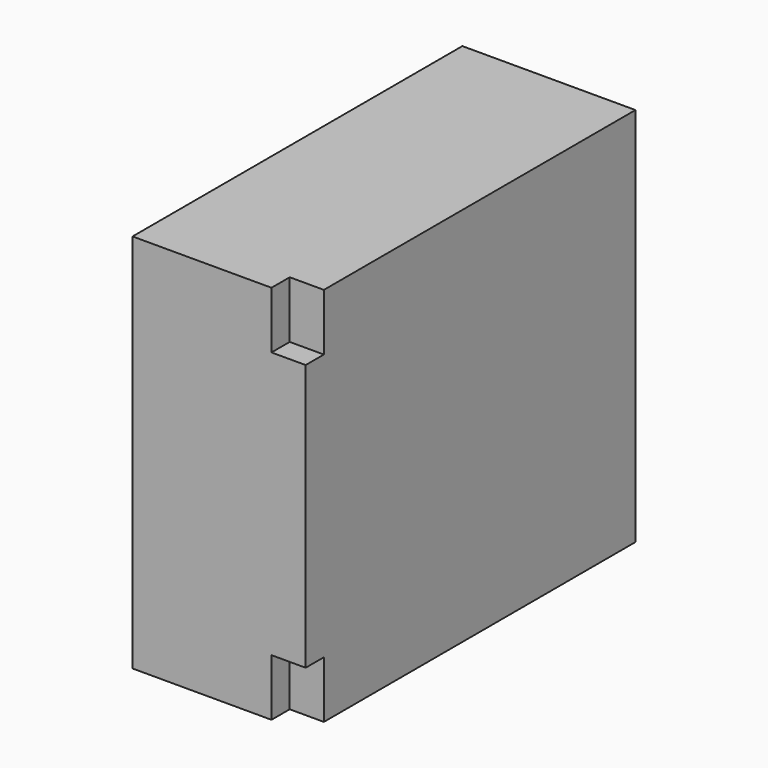
from build123d import *

# Parameters (mm, degrees)
SKETCH_W     = 76
SKETCH_H     = 167
PAD_DEPTH    = 181
SKETCH001_W  = 25
SKETCH001_H  = 10
POCKET_DEPTH = 15


with BuildPart() as part:
    # Sketch → Pad (new body)
    with BuildSketch(Plane.XZ):
        with Locations((38, 83.5)):
            Rectangle(SKETCH_W, SKETCH_H)
    extrude(amount=PAD_DEPTH)

    # Sketch001 (on Face2 of Pad) → Pocket (cut)
    with BuildSketch(Plane(origin=(76, 0, 0), x_dir=(0, 0, 1), z_dir=(1, 0, 0))):
        with Locations((12.5, 176)):
            Rectangle(SKETCH001_W, SKETCH001_H)
        with Locations((154.5, 176)):
            Rectangle(SKETCH001_W, SKETCH001_H)
    extrude(amount=-POCKET_DEPTH, mode=Mode.SUBTRACT)


solid = part.part
